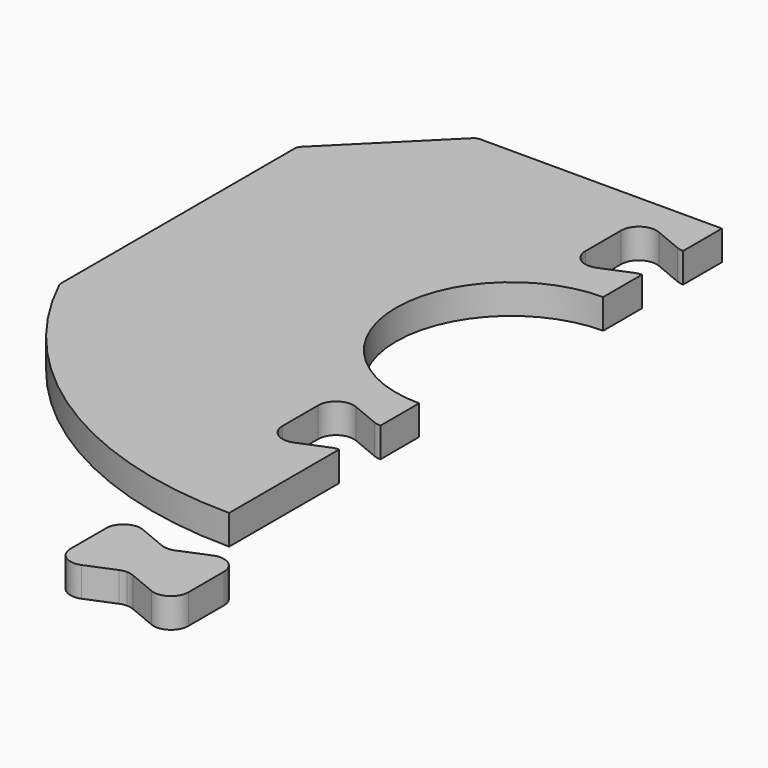
from build123d import *

# Parameters (mm, degrees)
F1_DEPTH = 20


with BuildPart() as f1:
    # F0 (on Top) → F1 (new body)
    with BuildSketch(Plane.XY):
        with BuildLine():
            Line((0, -110.120567), (0, -77.5))
            ThreePointArc((0, -77.5), (-77.5, 0), (0, 77.5))
            Line((0, 77.5), (0, 110.120567))
            ThreePointArc((0, 110.120567), (-2.341084, 109.88999), (-4.592201, 109.207121))
            Line((-4.592201, 109.207121), (-23.407799, 101.413446))
            ThreePointArc((-23.407799, 101.413446), (-34.666843, 102.522365), (-40, 112.5))
            Line((-40, 112.5), (-40, 142.5))
            ThreePointArc((-40, 142.5), (-34.666843, 152.477635), (-23.407799, 153.586554))
            Line((-23.407799, 153.586554), (-4.592201, 145.792879))
            ThreePointArc((-4.592201, 145.792879), (-2.341084, 145.11001), (0, 144.879433))
            Line((0, 144.879433), (0, 177.5))
            Line((0, 177.5), (-163.086722, 177.5))
            ThreePointArc((-163.086722, 177.5), (-164.994123, 177.121885), (-166.613038, 176.044728))
            Line((-166.613038, 176.044728), (-231.026316, 111.96603))
            ThreePointArc((-231.026316, 111.96603), (-232.116903, 110.340731), (-232.5, 108.421301))
            Line((-232.5, 108.421301), (-232.5, -88.383885))
            ThreePointArc((-232.5, -88.383885), (-232.378694, -89.478575), (-232.020662, -90.520148))
            ThreePointArc((-232.020662, -90.520148), (-137.328679, -197.662967), (0, -237.5))
            Line((0, -237.5), (0, -144.879433))
            ThreePointArc((0, -144.879433), (-2.341084, -145.11001), (-4.592201, -145.792879))
            Line((-4.592201, -145.792879), (-23.407799, -153.586554))
            ThreePointArc((-23.407799, -153.586554), (-34.666843, -152.477635), (-40, -142.5))
            Line((-40, -142.5), (-40, -112.5))
            ThreePointArc((-40, -112.5), (-34.666843, -102.522365), (-23.407799, -101.413446))
            Line((-23.407799, -101.413446), (-4.592201, -109.207121))
            ThreePointArc((-4.592201, -109.207121), (-2.341084, -109.88999), (0, -110.120567))
        make_face()
        with BuildLine():
            ThreePointArc((4.707006, -288.484285), (2.399611, -289.184226), (0, -289.420567))
            ThreePointArc((0, -289.420567), (-2.399611, -289.184226), (-4.707006, -288.484285))
            Line((-4.707006, -288.484285), (-23.522604, -280.690609))
            ThreePointArc((-23.522604, -280.690609), (-34.500172, -281.771806), (-39.7, -291.5))
            Line((-39.7, -291.5), (-39.7, -321.5))
            ThreePointArc((-39.7, -321.5), (-34.500172, -331.228194), (-23.522604, -332.309391))
            Line((-23.522604, -332.309391), (-4.707006, -324.515715))
            ThreePointArc((-4.707006, -324.515715), (-2.399611, -323.815774), (0, -323.579433))
            ThreePointArc((0, -323.579433), (2.399611, -323.815774), (4.707006, -324.515715))
            Line((4.707006, -324.515715), (23.522604, -332.309391))
            ThreePointArc((23.522604, -332.309391), (34.500172, -331.228194), (39.7, -321.5))
            Line((39.7, -321.5), (39.7, -291.5))
            ThreePointArc((39.7, -291.5), (34.500172, -281.771806), (23.522604, -280.690609))
            Line((23.522604, -280.690609), (4.707006, -288.484285))
        make_face()
    extrude(amount=F1_DEPTH)


solid = f1.part
